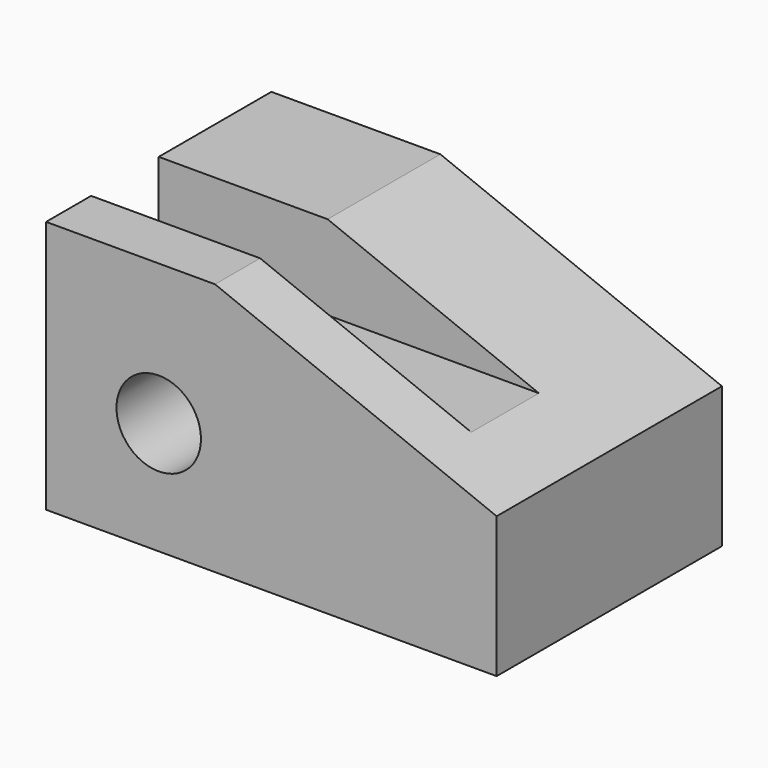
from build123d import *

# Parameters (mm, degrees)
F1_DEPTH = 50
F2_R     = 7.5
F3_DEPTH = 50.001
F5_W     = 80
F5_H     = 15
F6_DEPTH = 15


with BuildPart() as f1:
    # F0 (on Front) → F1 (new body)
    with BuildSketch(Plane.XZ):
        Polygon((0, 45), (0, 0), (80, 0), (80, 25), (30, 45), align=None)
    extrude(amount=F1_DEPTH)

    # F2 (on face) → F3 (cut, through all)
    with BuildSketch(Plane.XZ.offset(50)):
        with Locations((20, 20)):
            Circle(F2_R)
    extrude(amount=-F3_DEPTH, mode=Mode.SUBTRACT)

    # F5 (on face) → F6 (cut, through all)
    with BuildSketch(Plane.XY.offset(45)):
        with Locations((40, -32.5)):
            Rectangle(F5_W, F5_H)
    extrude(amount=-F6_DEPTH, mode=Mode.SUBTRACT)


solid = f1.part
